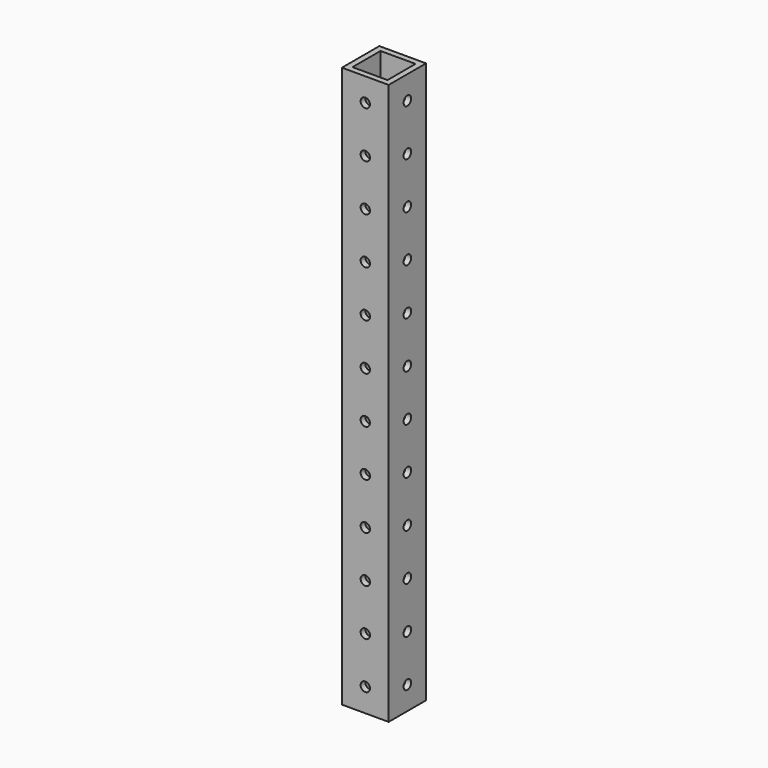
from build123d import *

# Parameters (mm, degrees)
F0_W     = 25.4
F0_H     = 304.8
F1_DEPTH = 25.4
F2_W     = 19.05
F2_H     = 19.05
F3_DEPTH = 304.8
F5_D     = 5.1054
F5_DEPTH = 25.4
F7_D     = 5.1054
F7_DEPTH = 25.4


with BuildPart() as f1:
    # F0 (on Right) → F1 (new body)
    with BuildSketch(Plane.YZ):
        with Locations((-14.18734, 160.249631)):
            Rectangle(F0_W, F0_H)
    extrude(amount=F1_DEPTH)

    # F2 (on face) → F3 (cut)
    with BuildSketch(Plane.XY.offset(312.649631)):
        with Locations((12.7, -14.18734)):
            Rectangle(F2_W, F2_H)
    extrude(amount=-F3_DEPTH, mode=Mode.SUBTRACT)

    # F5
    with Locations(Plane.YZ.offset(25.4)):
        with Locations((-14.18734, 20.549631), (-14.18734, 96.749631), (-14.18734, 122.149631), (-14.18734, 147.549631), (-14.18734, 45.949631), (-14.18734, 71.349631), (-14.18734, 172.949631), (-14.18734, 299.949631), (-14.18734, 198.349631), (-14.18734, 223.749631), (-14.18734, 249.149631), (-14.18734, 274.549631), (11.21266, 299.949631)):
            Hole(F5_D / 2, depth=F5_DEPTH)

    # F7
    with Locations(Plane(origin=(0, -1.48734, 0), x_dir=(-1, 0, 0), z_dir=(0, 1, 0))):
        with Locations((-12.7, 20.549631), (-12.7, 71.349631), (-12.7, 45.949631), (-12.7, 299.949631), (-12.7, 249.149631), (-12.7, 274.549631), (-12.7, 122.149631), (-12.7, 96.749631), (-12.7, 172.949631), (-12.7, 147.549631), (-12.7, 223.749631), (-12.7, 198.349631)):
            Hole(F7_D / 2, depth=F7_DEPTH)


solid = f1.part
